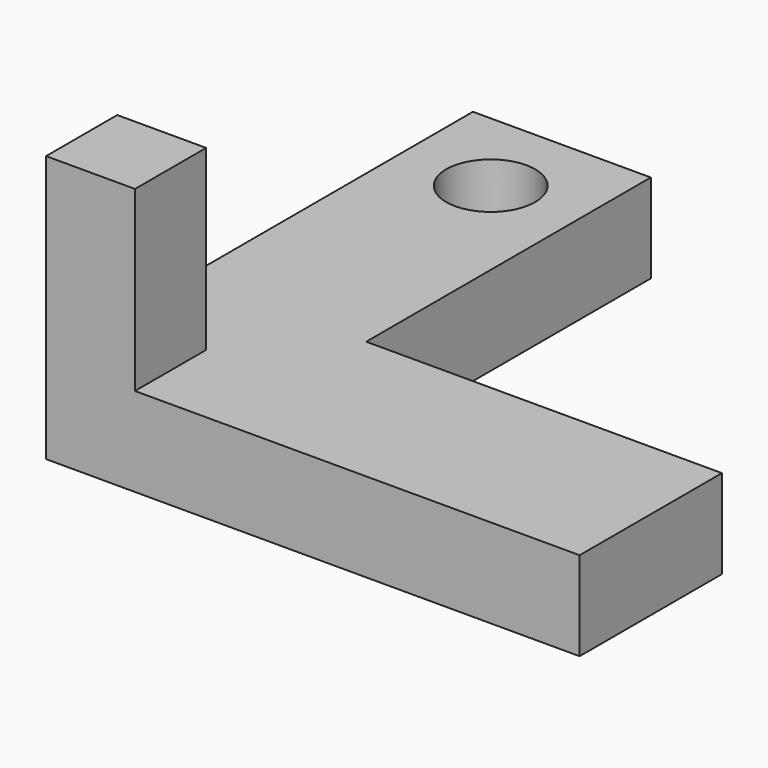
from build123d import *

# Parameters (mm, degrees)
F1_DEPTH = 5
F2_W     = 5
F2_H     = 5
F3_DEPTH = 10
F5_D     = 5


with BuildPart() as f1:
    # F0 (on Top) → F1 (new body)
    with BuildSketch(Plane.XY):
        Polygon((-15, -15), (15, -15), (15, -5), (-5, -5), (-5, 15), (-15, 15), align=None)
    extrude(amount=F1_DEPTH)

    # F2 (on face) → F3 (join)
    with BuildSketch(Plane.XY.offset(5)):
        with Locations((-12.5, -12.5)):
            Rectangle(F2_W, F2_H)
    extrude(amount=F3_DEPTH)

    # F5 (through all)
    with Locations(Plane.XY.offset(5)):
        with Locations((-10, 10)):
            Hole(F5_D / 2)


solid = f1.part
